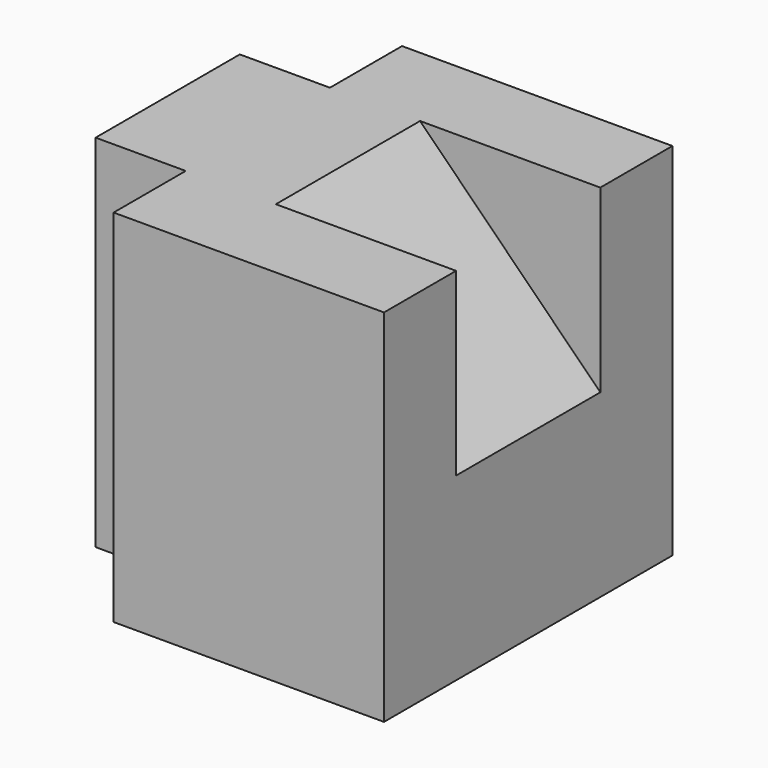
from build123d import *

# Parameters (mm, degrees)
F1_DEPTH      = 50.8
F3_DEPTH      = 12.7
F3_DEPTH_BACK = 12.7


with BuildPart() as f1:
    # F0 (on Top) → F1 (new body)
    with BuildSketch(Plane.XY):
        Polygon((12.7, 12.7), (0, 12.7), (0, -12.7), (12.7, -12.7), (12.7, -25.4), (50.8, -25.4), (50.8, 25.4), (12.7, 25.4), align=None)
    extrude(amount=F1_DEPTH)

    # F2 (on Front) → F3 (cut, two sides)
    with BuildSketch(Plane.XZ) as f3_sk:
        Polygon((50.8, 50.8), (25.4, 50.8), (50.8, 25.4), align=None)
    extrude(amount=-F3_DEPTH, mode=Mode.SUBTRACT)
    extrude(f3_sk.sketch, amount=F3_DEPTH_BACK, mode=Mode.SUBTRACT)


solid = f1.part
